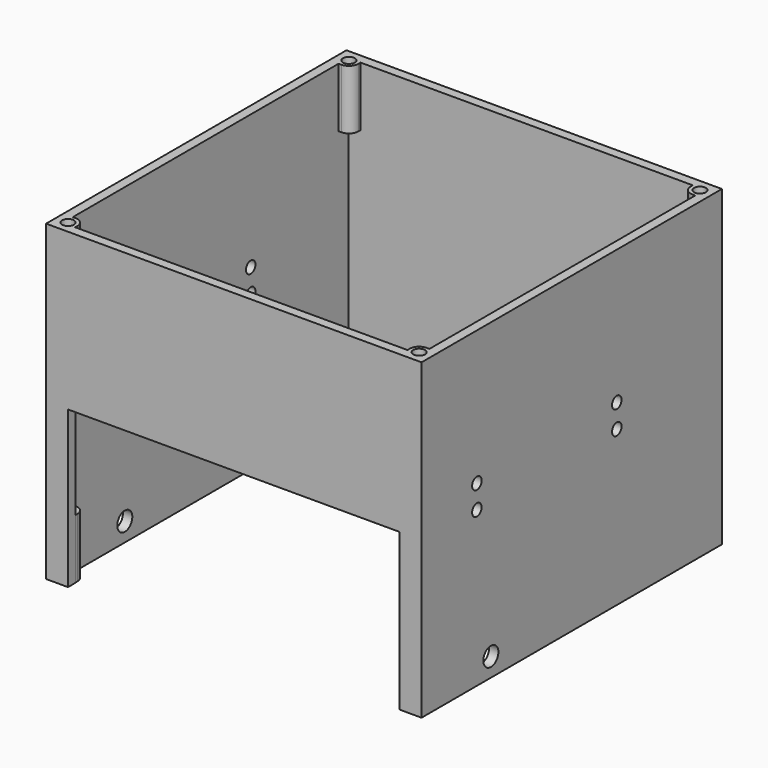
from build123d import *

# Parameters (mm, degrees)
SKETCH007_W     = 120
SKETCH007_H     = 120
PAD002_DEPTH    = 100
POCKET005_DEPTH = 100.001
SKETCH009_R     = 1.9
POCKET006_DEPTH = 16
SKETCH010_W     = 3.9
SKETCH010_H     = 62
POCKET007_DEPTH = 114
SKETCH011_R     = 1.9
POCKET008_DEPTH = 16
SKETCH012_R     = 1.9
POCKET009_DEPTH = 120.001
SKETCH013_W     = 106
SKETCH013_H     = 50
POCKET010_DEPTH = 3
SKETCH014_R     = 3
POCKET011_DEPTH = 120.001
SKETCH015_W     = 10
SKETCH015_H     = 10
POCKET012_DEPTH = 3


with BuildPart() as part:
    # Sketch007 → Pad002 (new body)
    with BuildSketch(Plane.XY):
        with Locations((75, 75)):
            Rectangle(SKETCH007_W, SKETCH007_H)
    extrude(amount=PAD002_DEPTH)

    # Sketch008 (on Face5 of Pad002) → Pocket005 (cut, through all)
    with BuildSketch(Plane(origin=(0, 0, 0), x_dir=(1, 0, 0), z_dir=(0, 0, -1))):
        with BuildLine():
            Line((21.9, -18), (128.1, -18))
            Line((128.1, -18), (128.1, -18.9))
            ThreePointArc((128.1, -18.9), (128.97868, -21.02132), (131.1, -21.9))
            Line((132, -21.9), (131.1, -21.9))
            Line((132, -21.9), (132, -128.1))
            Line((132, -128.1), (131.1, -128.1))
            ThreePointArc((131.1, -128.1), (128.97868, -128.97868), (128.1, -131.1))
            Line((128.1, -132), (128.1, -131.1))
            Line((21.9, -132), (128.1, -132))
            Line((21.9, -132), (21.9, -131.1))
            ThreePointArc((21.9, -131.1), (21.02132, -128.97868), (18.9, -128.1))
            Line((18, -128.1), (18.9, -128.1))
            Line((18, -21.9), (18, -128.1))
            Line((18, -21.9), (18.9, -21.9))
            ThreePointArc((18.9, -21.9), (21.02132, -21.02132), (21.9, -18.9))
            Line((21.9, -18), (21.9, -18.9))
        make_face()
    extrude(amount=-POCKET005_DEPTH, mode=Mode.SUBTRACT)

    # Sketch009 (on Face5 of Pocket005) → Pocket006 (cut)
    with BuildSketch(Plane.XY.offset(100)):
        with Locations((18.9, 18.9)):
            Circle(SKETCH009_R)
        with Locations((131.1, 18.9)):
            Circle(SKETCH009_R)
        with Locations((131.1, 131.1)):
            Circle(SKETCH009_R)
        with Locations((18.9, 131.1)):
            Circle(SKETCH009_R)
    extrude(amount=-POCKET006_DEPTH, mode=Mode.SUBTRACT)

    # Sketch010 (on Face7 of Pocket006) → Pocket007 (cut)
    with BuildSketch(Plane.YZ.offset(18)):
        with Locations((19.95, 50)):
            Rectangle(SKETCH010_W, SKETCH010_H)
        with Locations((130.05, 50)):
            Rectangle(SKETCH010_W, SKETCH010_H)
    extrude(amount=POCKET007_DEPTH, mode=Mode.SUBTRACT)

    # Sketch011 (on Face4 of Pocket007) → Pocket008 (cut)
    with BuildSketch(Plane(origin=(0, 0, 0), x_dir=(1, 0, 0), z_dir=(0, 0, -1))):
        with Locations((18.9, -131.1)):
            Circle(SKETCH011_R)
        with Locations((18.9, -18.9)):
            Circle(SKETCH011_R)
        with Locations((131.1, -18.9)):
            Circle(SKETCH011_R)
        with Locations((131.1, -131.1)):
            Circle(SKETCH011_R)
    extrude(amount=-POCKET008_DEPTH, mode=Mode.SUBTRACT)

    # Sketch012 (on Face2 of Pocket008) → Pocket009 (cut, through all)
    with BuildSketch(Plane(origin=(15, 0, 0), x_dir=(0, -1, 0), z_dir=(-1, 0, 0))):
        with Locations((-37.1, 57)):
            Circle(SKETCH012_R)
        with Locations((-37.1, 49.5)):
            Circle(SKETCH012_R)
        with Locations((-93, 57)):
            Circle(SKETCH012_R)
        with Locations((-93, 49.5)):
            Circle(SKETCH012_R)
    extrude(amount=-POCKET009_DEPTH, mode=Mode.SUBTRACT)

    # Sketch013 (on Face6 of Pocket009) → Pocket010 (cut)
    with BuildSketch(Plane.XZ.offset(-15)):
        with Locations((75, 25)):
            Rectangle(SKETCH013_W, SKETCH013_H)
    extrude(amount=-POCKET010_DEPTH, mode=Mode.SUBTRACT)

    # Sketch014 (on Face2 of Pocket010) → Pocket011 (cut, through all)
    with BuildSketch(Plane(origin=(15, 0, 0), x_dir=(0, -1, 0), z_dir=(-1, 0, 0))):
        with Locations((-42.7, 6)):
            Circle(SKETCH014_R)
    extrude(amount=-POCKET011_DEPTH, mode=Mode.SUBTRACT)

    # Sketch015 (on Face1 of Pocket011) → Pocket012 (cut)
    with BuildSketch(Plane(origin=(0, 135, 0), x_dir=(-1, 0, 0), z_dir=(0, 1, 0))):
        with Locations((-123, 15)):
            Rectangle(SKETCH015_W, SKETCH015_H)
    extrude(amount=-POCKET012_DEPTH, mode=Mode.SUBTRACT)


with BuildPart() as part_1:
    # Body009 placement: moved
    add(part.part.moved(Location((0, 0, -44))))


solid = part_1.part
